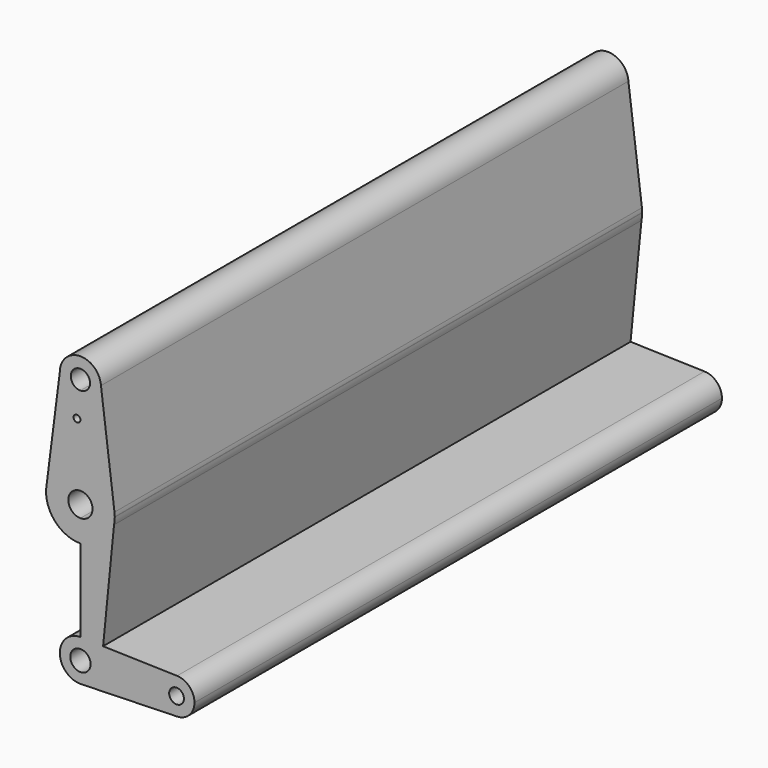
from build123d import *

# Parameters (mm, degrees)
F0_R     = 1.5875
F1_DEPTH = 304.8


with BuildPart() as f1:
    # F0 (on Front) → F1 (new body)
    with BuildSketch(Plane.XZ):
        with BuildLine():
            ThreePointArc((0, 4.6993368242), (3.3229329354, 3.3229329354), (4.6993368242, 0))
            Line((4.6993368242, 0), (9.525, 0))
            ThreePointArc((9.525, 0), (6.9205899931, 6.5445442276), (0.5316017538, 9.5101537619))
            Line((0.5316017538, 9.5101537619), (0, 9.525))
            Line((0, 9.525), (0, 4.6993368242))
        make_face()
        with BuildLine():
            Line((9.525, 0), (4.6993368242, 0))
            ThreePointArc((4.6993368242, 0), (-3.3229329354, -3.3229329354), (0, 4.6993368242))
            Line((0, 4.6993368242), (0, 9.525))
            ThreePointArc((0, 9.525), (-9.525, 0), (0, -9.525))
            Line((0, -9.525), (0.5316017538, -9.5101537619))
            ThreePointArc((0.5316017538, -9.5101537619), (6.9205899931, -6.5445442276), (9.525, 0))
        make_face()
        with BuildLine():
            ThreePointArc((0.5316017538, 9.5101537619), (6.9205899931, 6.5445442276), (9.525, 0))
            Line((9.525, 0), (9.5715967897, 0))
            Line((9.5715967897, 0), (10.4859082128, 9.2321561771))
            Line((10.4859082128, 9.2321561771), (0.5316017538, 9.5101537619))
        make_face()
        with BuildLine():
            Line((9.5715967897, 0), (9.525, 0))
            ThreePointArc((9.525, 0), (6.9205899931, -6.5445442276), (0.5316017538, -9.5101537619))
            Line((0.5316017538, -9.5101537619), (44.6811596547, -8.2771727887))
            ThreePointArc((44.6811596547, -8.2771727887), (38.6771787766, -5.9362917114), (36.1696, 0))
            Line((36.1696, 0), (9.5715967897, 0))
        make_face()
        with BuildLine():
            Line((0, 47.625), (0, 9.525))
            ThreePointArc((0, 9.525), (0.2659045108, 9.5212877171), (0.5316017538, 9.5101537619))
            Line((0.5316017538, 9.5101537619), (10.4859082128, 9.2321561771))
            Line((10.4859082128, 9.2321561771), (15.5382400428, 60.2475053616))
            ThreePointArc((15.5382400428, 60.2475053616), (10.0095522531, 51.1782919734), (0, 47.625))
        make_face()
        with BuildLine():
            ThreePointArc((0.5316017538, 9.5101537619), (0.2659045108, 9.5212877171), (0, 9.525))
            Line((0, 9.525), (0.5316017538, 9.5101537619))
        make_face()
        with BuildLine():
            Line((10.4859082128, 9.2321561771), (9.5715967897, 0))
            Line((9.5715967897, 0), (36.1696, 0))
            ThreePointArc((36.1696, 0), (38.6771787766, 5.9362917114), (44.6811596547, 8.2771727887))
            Line((44.6811596547, 8.2771727887), (10.4859082128, 9.2321561771))
        make_face()
        with BuildLine():
            ThreePointArc((0, -9.525), (0.2659045108, -9.5212877171), (0.5316017538, -9.5101537619))
            Line((0.5316017538, -9.5101537619), (0, -9.525))
        make_face()
        with BuildLine():
            ThreePointArc((-15.539048206, 60.2513686187), (-10.0110839029, 51.1795363688), (0, 47.625))
            Line((0, 47.625), (0, 57.9110365877))
            ThreePointArc((0, 57.9110365877), (-5.5889634123, 63.5), (0, 69.0889634123))
            Line((0, 69.0889634123), (0, 79.375))
            ThreePointArc((0, 79.375), (-10.4912828548, 75.4142187767), (-15.7474569047, 65.5082893304))
            ThreePointArc((-15.7474569047, 65.5082893304), (-15.8385806759, 64.5747032959), (-15.8744056848, 63.6373650463))
            Line((-15.8744056848, 63.6373650463), (-15.539048206, 60.2513686187))
        make_face()
        with BuildLine():
            Line((0, 57.9110365877), (0, 47.625))
            ThreePointArc((0, 47.625), (10.0095522531, 51.1782919734), (15.5382400428, 60.2475053616))
            Line((15.5382400428, 60.2475053616), (15.8743690941, 63.6415304375))
            ThreePointArc((15.8743690941, 63.6415304375), (15.8390959676, 64.5670819697), (15.7499047581, 65.4890010335))
            ThreePointArc((15.7499047581, 65.4890010335), (10.4985768939, 75.4077919113), (0, 79.375))
            Line((0, 79.375), (0, 69.0889634123))
            ThreePointArc((0, 69.0889634123), (3.9519939286, 67.4519939286), (5.5889634123, 63.5))
            ThreePointArc((5.5889634123, 63.5), (3.9519939286, 59.5480060714), (0, 57.9110365877))
        make_face()
        with BuildLine():
            ThreePointArc((44.6811596547, 8.2771727887), (38.6771787766, 5.9362917114), (36.1696, 0))
            ThreePointArc((36.1696, 0), (38.6771787766, -5.9362917114), (44.6811596547, -8.2771727887))
            ThreePointArc((44.6811596547, -8.2771727887), (50.3862917114, -5.7728212234), (52.7304, 0))
            ThreePointArc((52.7304, 0), (50.3862917114, 5.7728212234), (44.6811596547, 8.2771727887))
        make_face()
        with BuildLine():
            ThreePointArc((47.8667940167, 0), (44.45, -3.4167940167), (41.0332059833, 0))
            ThreePointArc((41.0332059833, 0), (44.45, 3.4167940167), (47.8667940167, 0))
        make_face(mode=Mode.SUBTRACT)
        with BuildLine():
            ThreePointArc((-15.8744056848, 63.6373650463), (-15.7977059818, 61.9353560432), (-15.539048206, 60.2513686187))
            Line((-15.539048206, 60.2513686187), (-15.8744056848, 63.6373650463))
        make_face()
        with BuildLine():
            Line((15.8743690941, 63.6415304375), (15.5382400428, 60.2475053616))
            ThreePointArc((15.5382400428, 60.2475053616), (15.7905855762, 61.8650589734), (15.875, 63.5))
            ThreePointArc((15.875, 63.5), (15.8748422727, 63.5707659219), (15.8743690941, 63.6415304375))
        make_face()
        with BuildLine():
            ThreePointArc((-15.7474569047, 65.5082893304), (-10.4912828548, 75.4142187767), (0, 79.375))
            Line((0, 79.375), (0, 97.9523360729))
            Line((0, 97.9523360729), (0, 104.775))
            ThreePointArc((0, 104.775), (-6.7351920908, 107.5648079092), (-9.525, 114.3))
            Line((-9.525, 114.3), (-15.7474569047, 65.5082893304))
        make_face()
        with Locations((-1.5875, 97.9523360729)):
            Circle(F0_R, mode=Mode.SUBTRACT)
        with BuildLine():
            Line((0, 97.9523360729), (0, 79.375))
            ThreePointArc((0, 79.375), (10.4985768939, 75.4077919113), (15.7499047581, 65.4890010335))
            Line((15.7499047581, 65.4890010335), (9.5017650321, 114.9648956867))
            ThreePointArc((9.5017650321, 114.9648956867), (9.5191894857, 114.6326507696), (9.525, 114.3))
            ThreePointArc((9.525, 114.3), (6.7351920908, 107.5648079092), (0, 104.775))
            Line((0, 104.775), (0, 97.9523360729))
        make_face()
        with BuildLine():
            ThreePointArc((9.5017650321, 114.9648956867), (-0.3326507696, 123.8191894857), (-9.525, 114.3))
            ThreePointArc((-9.525, 114.3), (-6.7351920908, 107.5648079092), (0, 104.775))
            ThreePointArc((0, 104.775), (6.7351920908, 107.5648079092), (9.525, 114.3))
            ThreePointArc((9.525, 114.3), (9.5191894857, 114.6326507696), (9.5017650321, 114.9648956867))
        make_face()
        with BuildLine():
            ThreePointArc((4.4520695491, 114.3), (3.1480885685, 111.1519114315), (0, 109.8479304509))
            ThreePointArc((0, 109.8479304509), (-3.1480885685, 117.4480885685), (4.4520695491, 114.3))
        make_face(mode=Mode.SUBTRACT)
    extrude(amount=F1_DEPTH)


solid = f1.part
